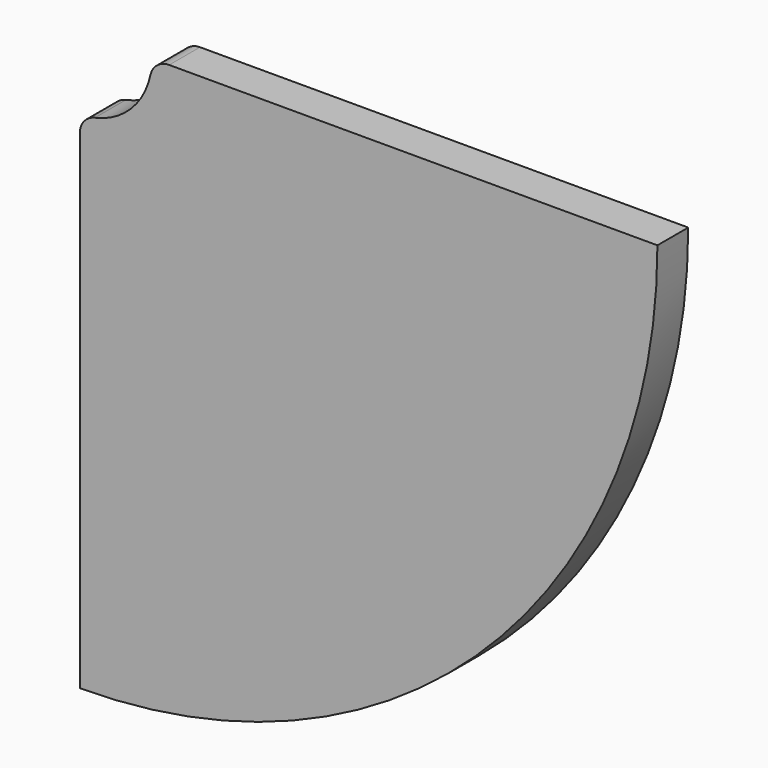
from build123d import *

# Parameters (mm, degrees)
F1_DEPTH = 4


with BuildPart() as f1:
    # F0 (on Front) → F1 (new body)
    with BuildSketch(Plane.XZ):
        with BuildLine():
            Line((60, 0), (9.287088, 0))
            ThreePointArc((9.287088, 0), (8.030526, -0.444027), (7.331911, -1.578947))
            ThreePointArc((7.331911, -1.578947), (5.303301, -5.303301), (1.578947, -7.331911))
            ThreePointArc((1.578947, -7.331911), (0.444027, -8.030526), (0, -9.287088))
            Line((0, -9.287088), (0, -60))
            ThreePointArc((0, -60), (42.426407, -42.426407), (60, 0))
        make_face()
    extrude(amount=F1_DEPTH)


solid = f1.part
